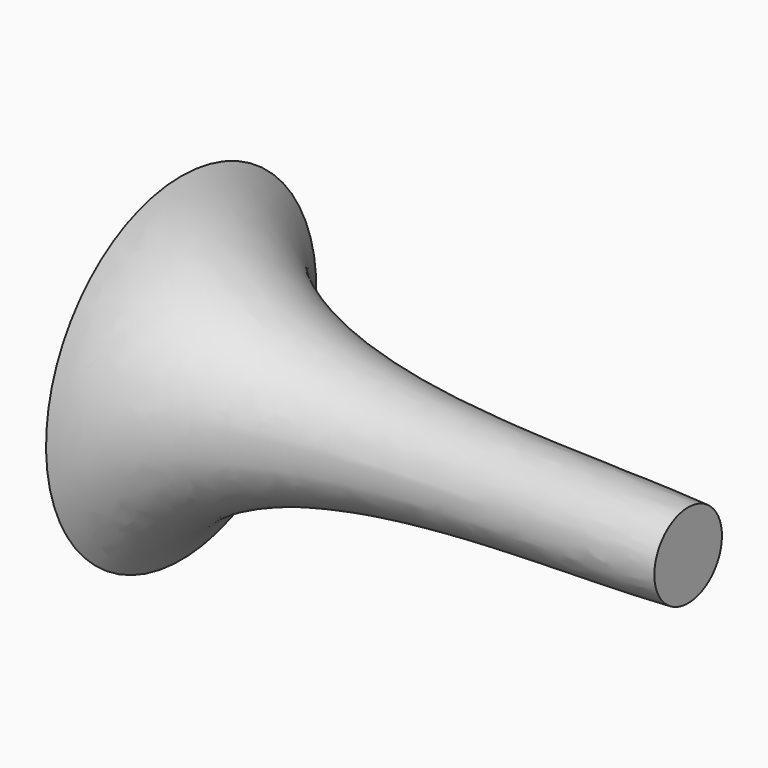
from build123d import *

# Parameters (mm, degrees)
F0_W = 152.4
F0_H = 12.7


with BuildPart() as f1:
    # F0 (on Front) → F1 (revolve)
    with BuildSketch(Plane.XZ):
        with Locations((48.857252, 28.690233)):
            Rectangle(F0_W, F0_H)
        with BuildLine():
            Line((-27.342748, 35.040233), (125.057252, 35.040233))
            add(Edge.make_bspline(
                [(-27.342748, 73.140233), (-4.941366, 30.959165), (71.498528, 38.018256), (125.057252, 35.040233)],
                knots=[0, 0, 0, 0, 157.090324, 157.090324, 157.090324, 157.090324], degree=3))
            Line((-27.342748, 73.140233), (-27.342748, 35.040233))
        make_face()
    revolve(axis=Axis((48.857252, 0, 22.340233), (-1, 0, 0)))


solid = f1.part
